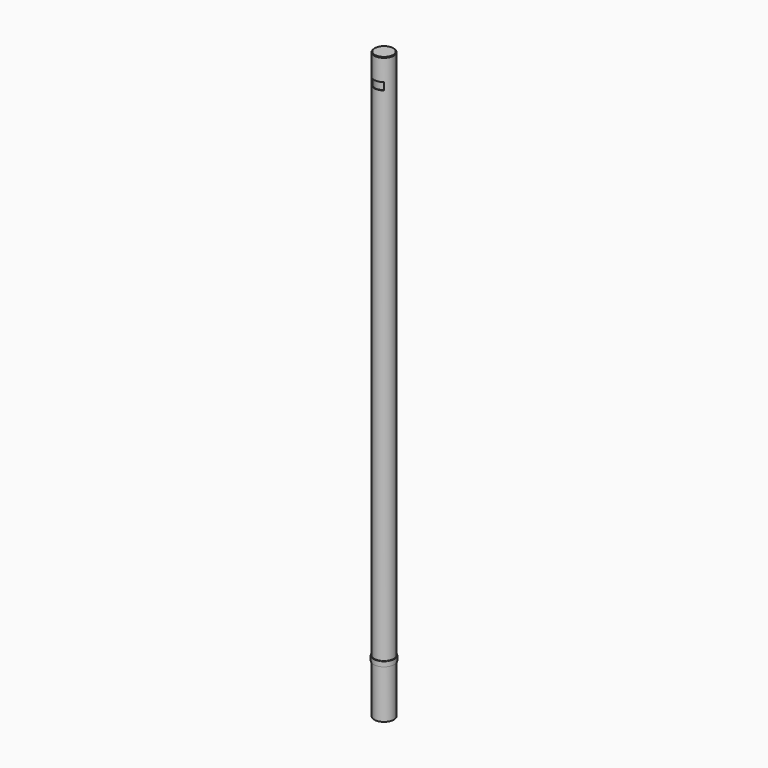
from build123d import *

# Parameters (mm, degrees)
F0_R     = 25.4
F0_R_2   = 23.8125
F1_DEPTH = 1524
F2_DEPTH = 1520.825
F3_SIZE  = 1.5875
F4_W     = 31.75
F4_H     = 19.05
F5_DEPTH = 50.8
F6_START = 127
F0_R_3   = 26.9875
F6_DEPTH = 12.7
F7_DEPTH = 139.7


with BuildPart() as f1:
    # F0 (on Top) → F1 (new body)
    with BuildSketch(Plane.XY):
        Circle(F0_R)
        Circle(F0_R_2, mode=Mode.SUBTRACT)
        Circle(F0_R_2)
    extrude(amount=F1_DEPTH)

    # F0 (on Top) → F2 (cut)
    with BuildSketch(Plane.XY):
        Circle(F0_R_2)
    extrude(amount=F2_DEPTH, mode=Mode.SUBTRACT)

    # F3
    f3_edges = [f1.edges().sort_by_distance(p)[0] for p in [
        (-25.4, 0, 1524),
    ]]
    chamfer(f3_edges, length=F3_SIZE)

    # F4 (on Front) → F5 (cut)
    with BuildSketch(Plane.XZ):
        with Locations((0, 1203.325)):
            Rectangle(F4_W, F4_H)
    extrude(amount=-F5_DEPTH, mode=Mode.SUBTRACT)

    # F0 (on Top) → F6 (join)
    with BuildSketch(Plane.XY.offset(F6_START)):
        Circle(F0_R_3)
        Circle(F0_R, mode=Mode.SUBTRACT)
    extrude(amount=F6_DEPTH)

    # F4 (on Front) → F7 (cut)
    with BuildSketch(Plane.XZ):
        with Locations((0, 1457.325)):
            Rectangle(F4_W, F4_H)
    extrude(amount=F7_DEPTH, mode=Mode.SUBTRACT)


solid = f1.part
